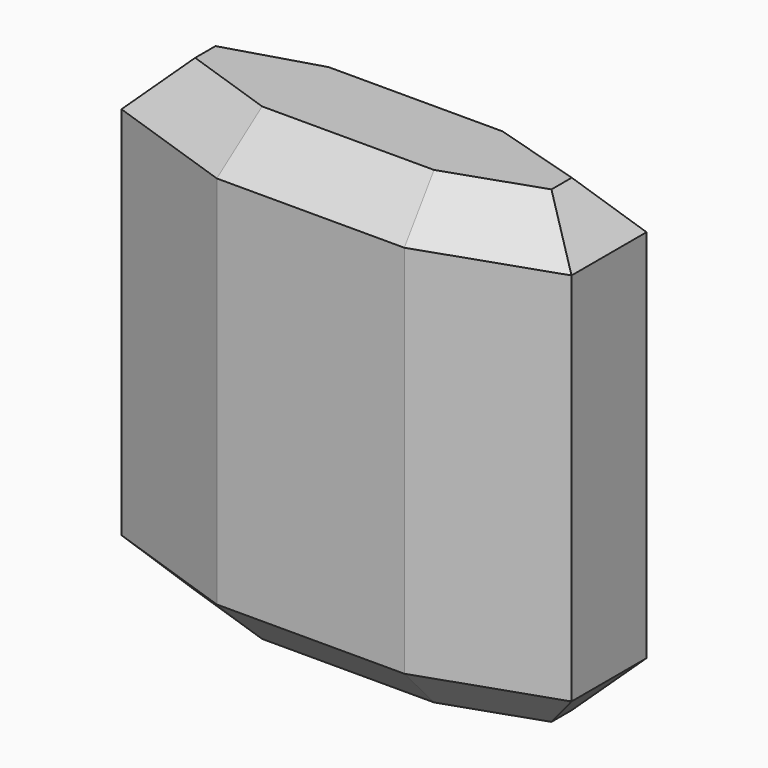
from build123d import *

# Parameters (mm, degrees)
F1_DEPTH = 10
F2_SIZE  = 1


with BuildPart() as f1:
    # F0 (on Top) → F1 (new body)
    with BuildSketch(Plane.XY):
        Polygon((-2, 1.9), (-4.8, 1.058258), (-4.8, -0.941742), (-2, -1.9), (2, -1.9), (4.8, -0.941742), (4.8, 1.058258), (2, 1.9), align=None)
    extrude(amount=F1_DEPTH)

    # F2
    f2_edges = [f1.edges().sort_by_distance(p)[0] for p in [
        (0, 1.9, 10),
        (0, -1.9, 10),
        (-4.8, 0.058258, 10),
        (4.8, 0.058258, 10),
        (3.4, 1.479129, 10),
        (-3.4, 1.479129, 10),
        (-3.4, -1.420871, 10),
        (3.4, -1.420871, 10),
        (0, 1.9, 0),
        (-3.4, 1.479129, 0),
        (-4.8, 0.058258, 0),
        (-3.4, -1.420871, 0),
        (0, -1.9, 0),
        (3.4, -1.420871, 0),
        (4.8, 0.058258, 0),
        (3.4, 1.479129, 0),
    ]]
    chamfer(f2_edges, length=F2_SIZE)


with BuildPart() as f3_1:
    # F3: copy of F1
    add(f1.part)


solid = Compound([f1.part, f3_1.part])
